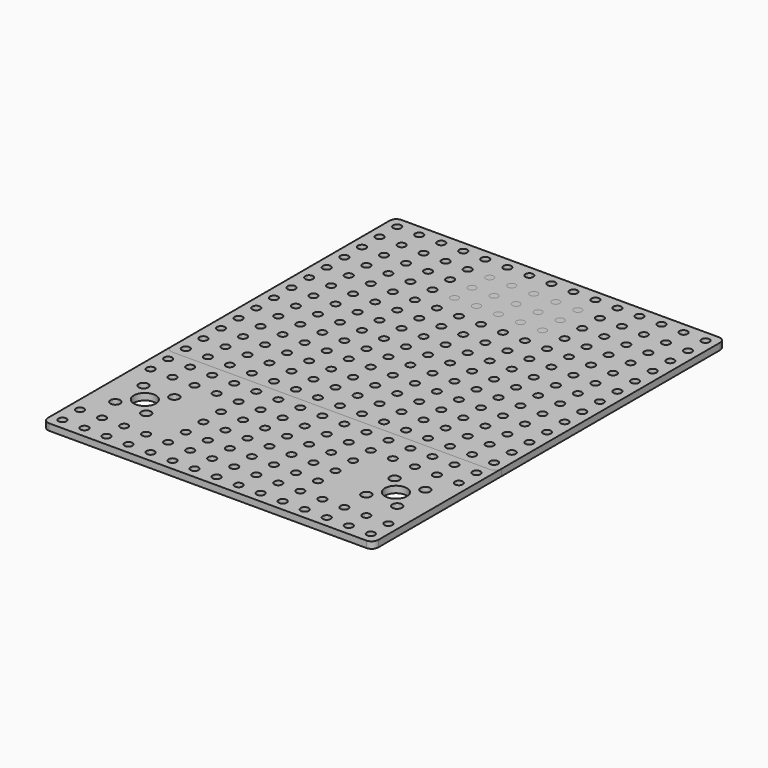
from build123d import *

# Parameters (mm, degrees)
CYLINDER001_R     = 5
CYLINDER001_DEPTH = 10
CYLINDER_R        = 2.2
CYLINDER_DEPTH    = 10
ARRAY_X_COUNT     = 2
ARRAY_X_PITCH     = 14
ARRAY_Y_COUNT     = 2
ARRAY_Y_PITCH     = 16
BOX001_W          = 33
BOX001_H          = 27
BOX001_DEPTH      = 3
FILLET_R          = 3
CYLINDER003_R     = 2
CYLINDER003_DEPTH = 10
ARRAY002_X_COUNT  = 2
ARRAY002_X_PITCH  = 30
ARRAY002_Y_COUNT  = 2
ARRAY002_Y_PITCH  = 24
BOX002_W          = 43
BOX002_H          = 33
BOX002_DEPTH      = 3
BOX003_W          = 46
BOX003_H          = 34
BOX003_DEPTH      = 3
CYLINDER002_R     = 1.8
CYLINDER002_DEPTH = 10
ARRAY001_X_COUNT  = 15
ARRAY001_X_PITCH  = 10
ARRAY001_Y_COUNT  = 20
ARRAY001_Y_PITCH  = 10
BOX_W             = 150
BOX_H             = 200
BOX_DEPTH         = 3
FILLET001_R       = 3
BOX004_W          = 150
BOX004_H          = 130
BOX004_DEPTH      = 3
FILLET002_R       = 3


with BuildPart() as motor_holder_central_hole:
    # Cylinder001 → Cylinder001 (new body)
    with BuildSketch(Plane(origin=(18, 13.5, 0), x_dir=(1, 0, 0), z_dir=(0, 0, 1))):
        Circle(CYLINDER001_R)
    extrude(amount=CYLINDER001_DEPTH)


with BuildPart() as hole_extract:
    # Cylinder → Cylinder (new body)
    with BuildSketch(Plane.XY):
        Circle(CYLINDER_R)
    extrude(amount=CYLINDER_DEPTH)

    # Array X: hole extract ×2


with BuildPart() as hole_extract_1:
    add(hole_extract.part)
    with Locations(*[(i * ARRAY_X_PITCH, 0, 0) for i in range(1, ARRAY_X_COUNT)]):
        add(hole_extract.part)

    # Array Y: hole extract ×2


with BuildPart() as hole_extract_2:
    add(hole_extract_1.part)
    with Locations(*[(0, i * ARRAY_Y_PITCH, 0) for i in range(1, ARRAY_Y_COUNT)]):
        add(hole_extract_1.part)


with BuildPart() as hole_extract_3:
    # Array placement: moved
    add(hole_extract_2.part.moved(Location((11, 5.5, 0))))

    # Fusion: union motor holder central hole
    add(motor_holder_central_hole.part)


with BuildPart() as motor_holder_cut:
    # Box001 → Box001 (new body)
    with BuildSketch(Plane.XY):
        with Locations((16.5, 13.5)):
            Rectangle(BOX001_W, BOX001_H)
    extrude(amount=BOX001_DEPTH)

    # Fillet
    fillet_edges = [motor_holder_cut.edges().sort_by_distance(p)[0] for p in [
        (33, 0, 1.5),
        (33, 27, 1.5),
    ]]
    fillet(fillet_edges, radius=FILLET_R)

    # Cut: cut hole extract
    add(hole_extract_3.part, mode=Mode.SUBTRACT)


with BuildPart() as motor_holder_hole_extract_clone:
    # Body base: copy of hole extract
    add(hole_extract_3.part)


with BuildPart() as caster_hole_array:
    # Cylinder003 → Cylinder003 (new body)
    with BuildSketch(Plane.XY):
        Circle(CYLINDER003_R)
    extrude(amount=CYLINDER003_DEPTH)

    # Array002 X: caster hole array ×2


with BuildPart() as caster_hole_array_1:
    add(caster_hole_array.part)
    with Locations(*[(i * ARRAY002_X_PITCH, 0, 0) for i in range(1, ARRAY002_X_COUNT)]):
        add(caster_hole_array.part)

    # Array002 Y: caster hole array ×2


with BuildPart() as caster_hole_array_2:
    add(caster_hole_array_1.part)
    with Locations(*[(0, i * ARRAY002_Y_PITCH, 0) for i in range(1, ARRAY002_Y_COUNT)]):
        add(caster_hole_array_1.part)


with BuildPart() as caster_hole_array_3:
    # Array002 placement: moved
    add(caster_hole_array_2.part.moved(Location((60, 141, 0))))


with BuildPart() as plate_hole_fusion:
    # Part__Mirroring: instance of motor holder hole extract clone
    add(motor_holder_hole_extract_clone.part.mirror(Plane(origin=(75, 0, 0), x_dir=(0, -1, 0), z_dir=(1, 0, 0))))

    # Fusion003: union motor holder hole extract clone, caster hole array
    add(motor_holder_hole_extract_clone.part)
    add(caster_hole_array_3.part)


with BuildPart() as motor_plate_patch:
    # Box002 → Box002 (new body)
    with BuildSketch(Plane(origin=(0, -3, 0), x_dir=(1, 0, 0), z_dir=(0, 0, 1))):
        with Locations((21.5, 16.5)):
            Rectangle(BOX002_W, BOX002_H)
    extrude(amount=BOX002_DEPTH)


with BuildPart() as caster_patch:
    # Box003 → Box003 (new body)
    with BuildSketch(Plane(origin=(52, 136, 0), x_dir=(1, 0, 0), z_dir=(0, 0, 1))):
        with Locations((23, 17)):
            Rectangle(BOX003_W, BOX003_H)
    extrude(amount=BOX003_DEPTH)


with BuildPart() as patch_fusion:
    # Part__Mirroring001: instance of motor plate patch
    add(motor_plate_patch.part.mirror(Plane(origin=(75, 0, 0), x_dir=(0, -1, 0), z_dir=(1, 0, 0))))

    # Fusion001: union motor plate patch, caster patch
    add(motor_plate_patch.part)
    add(caster_patch.part)


with BuildPart() as m3_hole_array:
    # Cylinder002 → Cylinder002 (new body)
    with BuildSketch(Plane.XY):
        Circle(CYLINDER002_R)
    extrude(amount=CYLINDER002_DEPTH)

    # Array001 X: m3 hole array ×15


with BuildPart() as m3_hole_array_1:
    add(m3_hole_array.part)
    with Locations(*[(i * ARRAY001_X_PITCH, 0, 0) for i in range(1, ARRAY001_X_COUNT)]):
        add(m3_hole_array.part)

    # Array001 Y: m3 hole array ×20


with BuildPart() as m3_hole_array_2:
    add(m3_hole_array_1.part)
    with Locations(*[(0, i * ARRAY001_Y_PITCH, 0) for i in range(1, ARRAY001_Y_COUNT)]):
        add(m3_hole_array_1.part)


with BuildPart() as m3_hole_array_3:
    # Array001 placement: moved
    add(m3_hole_array_2.part.moved(Location((5, 5, 0))))


with BuildPart() as holed_plate_cut001:
    # Box → Box (new body)
    with BuildSketch(Plane.XY):
        with Locations((75, 100)):
            Rectangle(BOX_W, BOX_H)
    extrude(amount=BOX_DEPTH)

    # Fillet001
    fillet001_edges = [holed_plate_cut001.edges().sort_by_distance(p)[0] for p in [
        (0, 0, 1.5),
        (0, 200, 1.5),
        (150, 0, 1.5),
        (150, 200, 1.5),
    ]]
    fillet(fillet001_edges, radius=FILLET001_R)

    # Cut001: cut m3 hole array
    add(m3_hole_array_3.part, mode=Mode.SUBTRACT)


with BuildPart() as holed_plate_cut001_1:
    # Cut001 placement: moved
    add(holed_plate_cut001.part.moved(Location((0, -22, 0))))

    # Fusion002: union patch fusion
    add(patch_fusion.part)

    # Cut002: cut plate hole fusion
    add(plate_hole_fusion.part, mode=Mode.SUBTRACT)


with BuildPart() as top_plate_cut:
    # Box004 → Box004 (new body)
    with BuildSketch(Plane.XY):
        with Locations((75, 65)):
            Rectangle(BOX004_W, BOX004_H)
    extrude(amount=BOX004_DEPTH)

    # Fillet002
    fillet002_edges = [top_plate_cut.edges().sort_by_distance(p)[0] for p in [
        (0, 0, 1.5),
        (0, 130, 1.5),
        (150, 0, 1.5),
        (150, 130, 1.5),
    ]]
    fillet(fillet002_edges, radius=FILLET002_R)

    # Cut002002: cut m3 hole array
    add(m3_hole_array_3.part, mode=Mode.SUBTRACT)


with BuildPart() as top_plate_cut_1:
    # Cut002002 placement: moved
    add(top_plate_cut.part.moved(Location((0, 48, 0))))


solid = Compound([motor_holder_cut.part, holed_plate_cut001_1.part, top_plate_cut_1.part])
